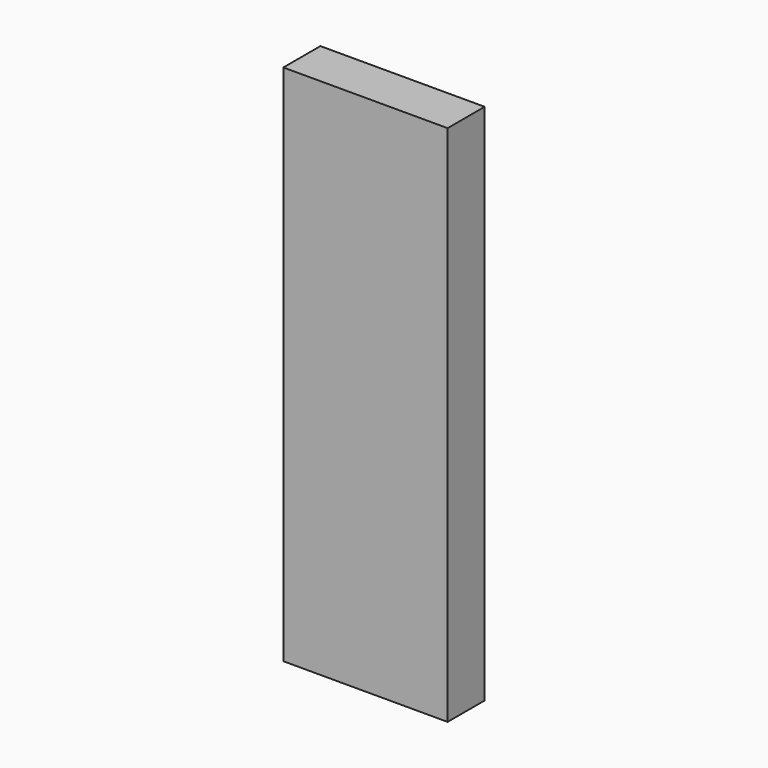
from build123d import *

# Parameters (mm, degrees)
F0_W      = 50
F0_H      = 26
F1_DEPTH  = 55
F3_DEPTH  = 45
F4_R      = 2
F5_R      = 2
F6_W      = 55
F6_H      = 31
F7_DEPTH  = 120
F9_DEPTH  = 110
F10_R     = 2
F11_W     = 193.8701719046
F11_H     = 235.1342812181
F12_DEPTH = 15.501
F13_R     = 3.5
F14_DEPTH = 3
F14_TAPER = 3
F15_R     = 3.5
F16_DEPTH = 3
F16_TAPER = 3
F18_DEPTH = 55


with BuildPart() as f1:
    # F0 (on Top) → F1 (new body)
    with BuildSketch(Plane.XY):
        Rectangle(F0_W, F0_H)
    extrude(amount=F1_DEPTH)

    # F2 (on face) → F3 (cut)
    with BuildSketch(Plane(origin=(0, 0, 0), x_dir=(1, 0, 0), z_dir=(0, 0, -1))):
        Polygon((-17.3603594806, -8), (17.3603594806, -8), (17.5, 0), (17.3603594806, 8), (-17.3603594806, 8), (-17.5, 0), align=None)
    extrude(amount=-F3_DEPTH, mode=Mode.SUBTRACT)

    # F4
    f4_edges = [f1.edges().sort_by_distance(p)[0] for p in [
        (-17.360359, 8, 22.5),
        (17.360359, 8, 22.5),
    ]]
    fillet(f4_edges, radius=F4_R)

    # F5
    f5_edges = [f1.edges().sort_by_distance(p)[0] for p in [
        (-17.360359, -8, 22.5),
        (17.360359, -8, 22.5),
    ]]
    fillet(f5_edges, radius=F5_R)

    # F6 (on face) → F7 (join)
    with BuildSketch(Plane(origin=(0, 0, 0), x_dir=(1, 0, 0), z_dir=(0, 0, -1))):
        Rectangle(F6_W, F6_H)
    extrude(amount=F7_DEPTH)

    # F8 (on face) → F9 (cut)
    with BuildSketch(Plane.XY):
        Polygon((-19.8167218183, 10.5), (-20, 0), (-19.8167218183, -10.5), (19.8167218183, -10.5), (20, 0), (19.8167218183, 10.5), align=None)
    extrude(amount=-F9_DEPTH, mode=Mode.SUBTRACT)

    # F10
    f10_edges = [f1.edges().sort_by_distance(p)[0] for p in [
        (-19.816722, -10.5, -55),
        (19.816722, -10.5, -55),
        (-19.816722, 10.5, -55),
        (19.816722, 10.5, -55),
    ]]
    fillet(f10_edges, radius=F10_R)

    # F11 (on Front) → F12 (cut, through all)
    with BuildSketch(Plane.XZ):
        with Locations((2.0464733243, -30.8961831033)):
            Rectangle(F11_W, F11_H)
    extrude(amount=-F12_DEPTH, mode=Mode.SUBTRACT)

    # F13 (on face) → F14 (join)
    with BuildSketch(Plane(origin=(0, 0, 0), x_dir=(-1, 0, 0), z_dir=(0, 1, 0))):
        with Locations((0, 49.4391918182)):
            Circle(F13_R)
    extrude(amount=F14_DEPTH, taper=F14_TAPER)

    # F15 (on face) → F16 (join)
    with BuildSketch(Plane(origin=(0, 0, 0), x_dir=(-1, 0, 0), z_dir=(0, 1, 0))):
        with Locations((0, -114.7729158401)):
            Circle(F15_R)
    extrude(amount=F16_DEPTH, taper=F16_TAPER)

    # F17 (on face) → F18 (join, through all)
    with BuildSketch(Plane.XY):
        Polygon((-25, 0), (-27.5, 0), (-27.5, -15.5), (27.5, -15.5), (27.5, 0), (25, 0), (25, -13), (-25, -13), align=None)
    extrude(amount=F18_DEPTH)


solid = f1.part
